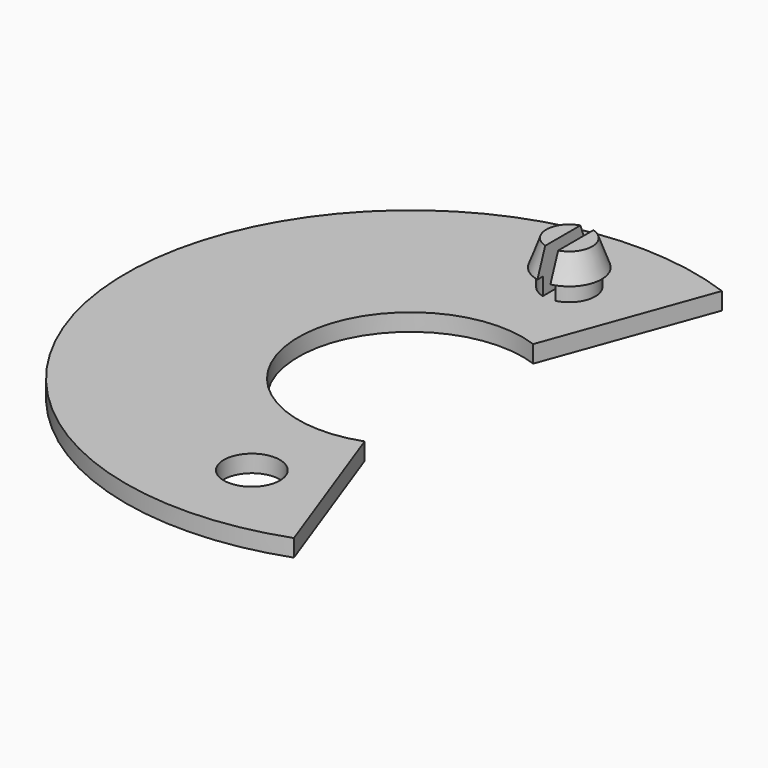
from build123d import *

# Parameters (mm, degrees)
F0_R     = 3.25
F0_R_2   = 3
F1_DEPTH = 2
F2_DEPTH = 4
F3_R     = 3.75
F3_R_2   = 3
F4_DEPTH = 3
F4_TAPER = 20
F6_DEPTH = 5


with BuildPart() as f1:
    # F0 (on Top) → F1 (new body)
    with BuildSketch(Plane.XY):
        with BuildLine():
            ThreePointArc((4.4462618632, -12.2160040702), (-13, 0), (4.4462618632, 12.2160040702))
            Line((4.4462618632, 12.2160040702), (11.2866647297, 31.0098564859))
            ThreePointArc((11.2866647297, 31.0098564859), (-33, 0), (11.2866647297, -31.0098564859))
            Line((11.2866647297, -31.0098564859), (4.4462618632, -12.2160040702))
        make_face()
        with Locations((0, -23)):
            Circle(F0_R, mode=Mode.SUBTRACT)
        with Locations((0, 23)):
            Circle(F0_R_2, mode=Mode.SUBTRACT)
    extrude(amount=F1_DEPTH)

    # F0 (on Top) → F2 (join)
    with BuildSketch(Plane.XY):
        with Locations((0, 23)):
            Circle(F0_R_2)
    extrude(amount=F2_DEPTH)

    # F3 (on face) → F4 (join)
    with BuildSketch(Plane.XY.offset(4)):
        with Locations((0, 23)):
            Circle(F3_R)
        with Locations((0, 23)):
            Circle(F3_R_2, mode=Mode.SUBTRACT)
        with Locations((0, 23)):
            Circle(F3_R_2)
    extrude(amount=F4_DEPTH, taper=F4_TAPER)

    # F5 (on face) → F6 (cut)
    with BuildSketch(Plane.XY.offset(7)):
        with BuildLine():
            ThreePointArc((0.75, 20.4499139795), (0, 20.3419107028), (-0.75, 20.4499139795))
            Line((-0.75, 20.4499139795), (-0.75, 18.6920836568))
            Line((-0.75, 18.6920836568), (0.75, 18.7304485589))
            Line((0.75, 18.7304485589), (0.75, 20.4499139795))
        make_face()
        with BuildLine():
            ThreePointArc((0.75, 25.5500860205), (0, 25.6580892972), (-0.75, 25.5500860205))
            Line((-0.75, 25.5500860205), (-0.75, 20.4499139795))
            ThreePointArc((-0.75, 20.4499139795), (0, 20.3419107028), (0.75, 20.4499139795))
            Line((0.75, 20.4499139795), (0.75, 25.5500860205))
        make_face()
        with BuildLine():
            Line((-0.75, 27.6506636292), (-0.75, 25.5500860205))
            ThreePointArc((-0.75, 25.5500860205), (0, 25.6580892972), (0.75, 25.5500860205))
            Line((0.75, 25.5500860205), (0.75, 27.6890285313))
            Line((0.75, 27.6890285313), (-0.75, 27.6506636292))
        make_face()
    extrude(amount=-F6_DEPTH, mode=Mode.SUBTRACT)


solid = f1.part
